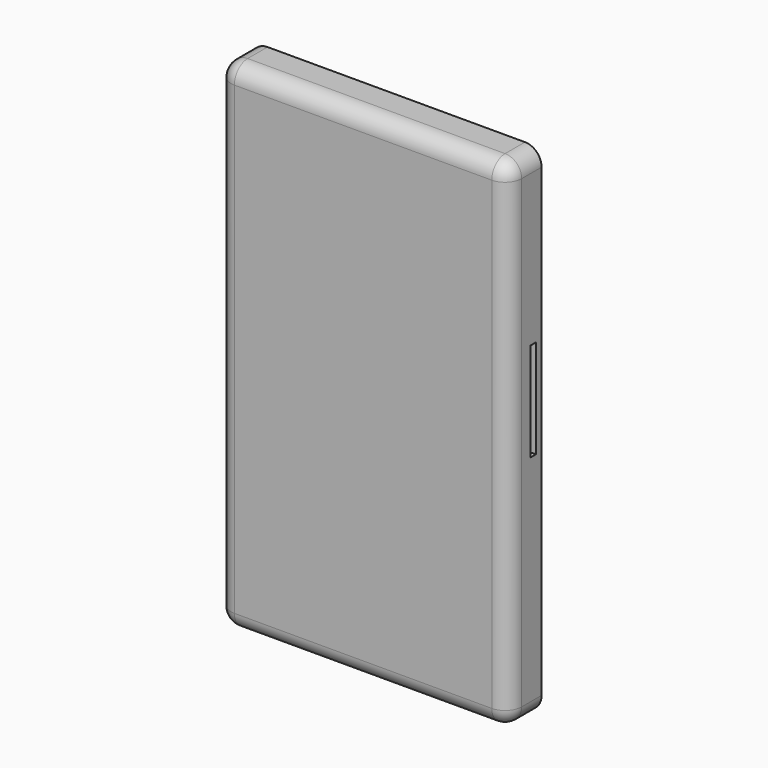
from build123d import *

# Parameters (mm, degrees)
F0_W     = 88.9
F0_H     = 152.4
F1_DEPTH = 6.35
F2_R     = 5.08
F3_W     = 2.027904
F3_H     = 29.865486
F4_DEPTH = 5.08
F5_R     = 0.508


with BuildPart() as f1:
    # F0 (on Front) → F1 (new body, symmetric)
    with BuildSketch(Plane.XZ):
        Rectangle(F0_W, F0_H)
    extrude(amount=F1_DEPTH, both=True)

    # F2
    f2_edges = [f1.edges().sort_by_distance(p)[0] for p in [
        (0, -6.35, 76.2),
        (-44.45, -6.35, 0),
        (0, -6.35, -76.2),
        (44.45, -6.35, 0),
        (-44.45, 0, 76.2),
        (-44.45, 0, -76.2),
        (44.45, 0, -76.2),
        (44.45, 0, 76.2),
    ]]
    fillet(f2_edges, radius=F2_R)

    # F3 (on face) → F4 (cut)
    with BuildSketch(Plane.YZ.offset(44.45)):
        with Locations((3.185241, 9.586453)):
            Rectangle(F3_W, F3_H)
    extrude(amount=-F4_DEPTH, mode=Mode.SUBTRACT)

    # F5
    f5_edges = [f1.edges().sort_by_distance(p)[0] for p in [
        (39.37, 4.199193, 9.586453),
        (39.37, 2.171289, 9.586453),
        (39.37, 3.185241, -5.34629),
        (44.45, 3.185241, 24.519196),
    ]]
    fillet(f5_edges, radius=F5_R)


solid = f1.part
